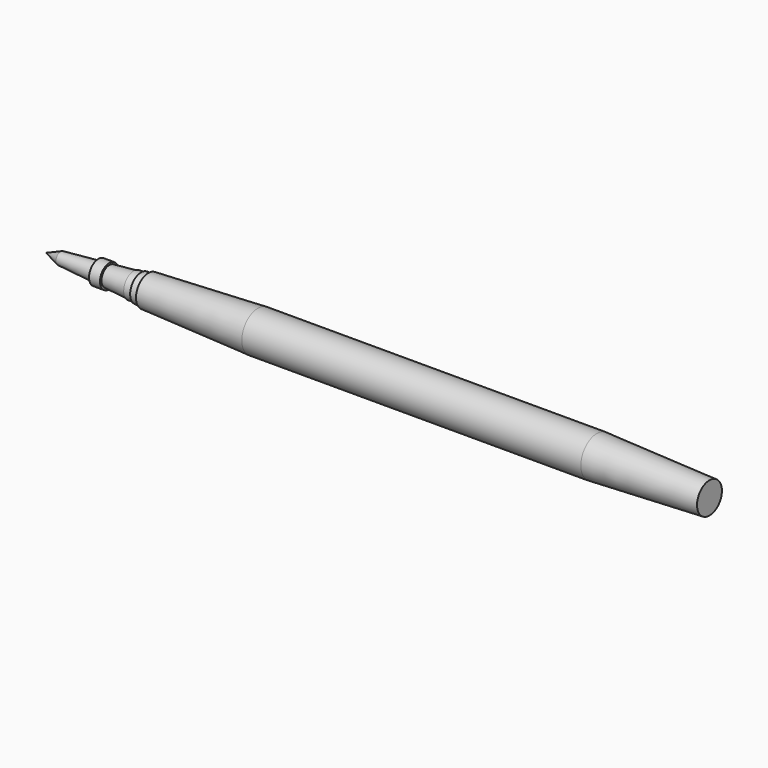
from build123d import *


with BuildPart() as f1:
    # F0 (on Front) → F1 (revolve)
    with BuildSketch(Plane.XZ):
        Polygon((115.316, 0), (0, 0), (2.54, -1.016), (9.0932, -1.553362), (9.0932, -2.032), (10.9982, -2.032), (10.9982, -1.709572), (15.24, -2.0574), (15.24, -2.1844), (16.51, -2.1844), (16.51, -2.3749), (17.78, -2.3749), (17.78, -2.6924), (36.83, -3.5052), (95.758, -3.5052), (115.316, -2.7051), align=None)
    revolve(axis=Axis((57.658, 0, 0), (-1, 0, 0)))


solid = f1.part
